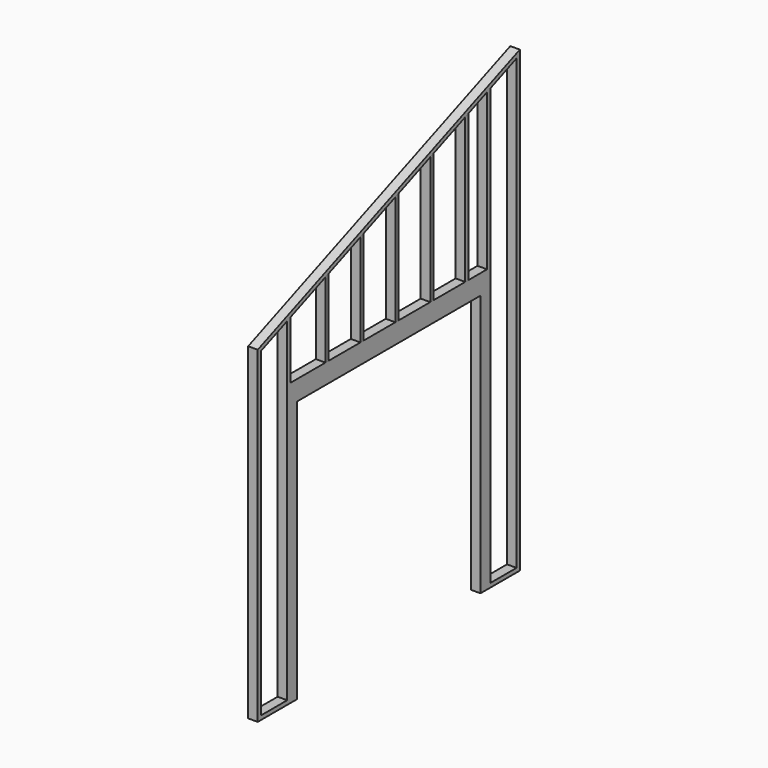
from build123d import *

# Parameters (mm, degrees)
F1_DEPTH  = 88.9
F2_W      = 2133.6
F2_H      = 2438.4
F3_DEPTH  = 88.901
F4_W      = 304.8
F4_H      = 2438.4
F5_DEPTH  = 88.901
F7_DEPTH  = 88.901
F9_DEPTH  = 88.901
F11_DEPTH = 88.9
F12_W     = 304.8
F12_H     = 38.1
F13_DEPTH = 88.9


with BuildPart() as f1:
    # F0 (on Right) → F1 (new body)
    with BuildSketch(Plane.YZ):
        Polygon((0, 3048), (0, 0), (3048, 0), (3048, 4267.2), align=None)
    extrude(amount=F1_DEPTH)

    # F2 (on face) → F3 (cut, through all)
    with BuildSketch(Plane.YZ.offset(88.9)):
        with Locations((1524, 1219.2)):
            Rectangle(F2_W, F2_H)
    extrude(amount=-F3_DEPTH, mode=Mode.SUBTRACT)

    # F4 (on face) → F5 (cut, through all)
    with BuildSketch(Plane.YZ.offset(88.9)):
        with Locations((190.5, 1219.2)):
            Rectangle(F4_W, F4_H)
        with Locations((2857.5, 1219.2)):
            Rectangle(F4_W, F4_H)
    extrude(amount=-F5_DEPTH, mode=Mode.SUBTRACT)

    # F6 (on face) → F7 (cut, through all)
    with BuildSketch(Plane.YZ.offset(88.9)):
        Polygon((381, 3159.365044), (381, 2622.55), (2667, 2622.55), (2667, 4073.765044), align=None)
    extrude(amount=-F7_DEPTH, mode=Mode.SUBTRACT)

    # F8 (on face) → F9 (cut, through all)
    with BuildSketch(Plane.YZ.offset(88.9)):
        Polygon((38.1, 3022.205044), (38.1, 2438.4), (342.9, 2438.4), (342.9, 3144.125044), align=None)
        Polygon((2705.1, 4089.005044), (2705.1, 2438.4), (3009.9, 2438.4), (3009.9, 4210.925044), align=None)
    extrude(amount=-F9_DEPTH, mode=Mode.SUBTRACT)

    # F12 (on face) → F13 (join)
    with BuildSketch(Plane.YZ.offset(88.9)):
        with Locations((190.5, 19.05)):
            Rectangle(F12_W, F12_H)
        with Locations((2857.5, 19.05)):
            Rectangle(F12_W, F12_H)
    extrude(amount=-F13_DEPTH)


with BuildPart() as f11:
    # F10 (on face) → F11 (new body)
    with BuildSketch(Plane.YZ.offset(88.9)):
        Polygon((825.5, 3337.165044), (787.4, 3321.925044), (787.4, 2622.55), (825.5, 2622.55), align=None)
        Polygon((1231.9, 3499.725044), (1193.8, 3484.485044), (1193.8, 2622.55), (1231.9, 2622.55), align=None)
        Polygon((1638.3, 3662.285044), (1600.2, 3647.045044), (1600.2, 2622.55), (1638.3, 2622.55), align=None)
        Polygon((2044.7, 3824.845044), (2006.6, 3809.605044), (2006.6, 2622.55), (2044.7, 2622.55), align=None)
        Polygon((2451.1, 3987.405044), (2413, 3972.165044), (2413, 2622.55), (2451.1, 2622.55), align=None)
    extrude(amount=-F11_DEPTH)


solid = Compound([f1.part, f11.part])
